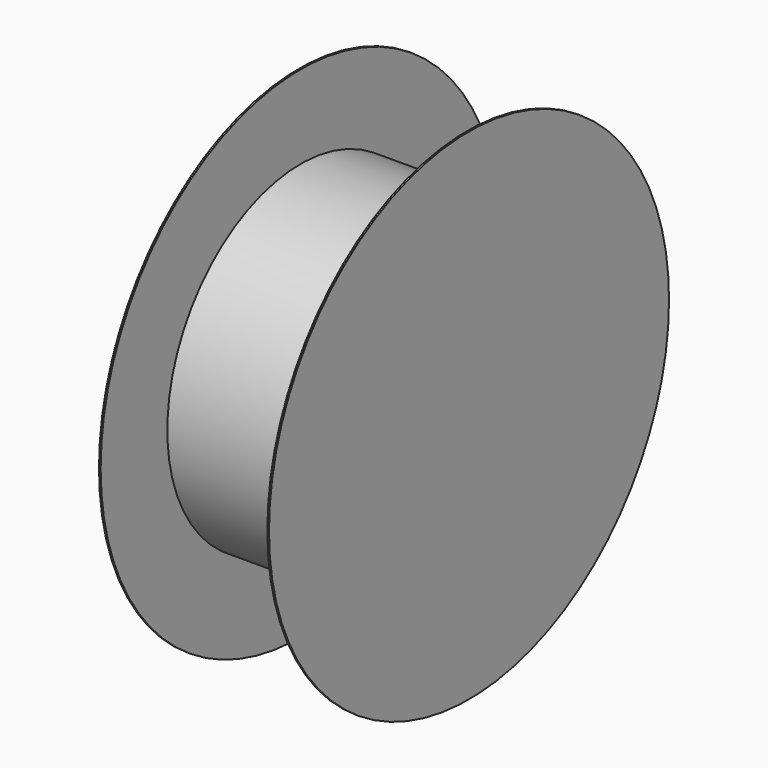
from build123d import *

# Parameters (mm, degrees)
SKETCH005_R   = 100
SKETCH005_R_2 = 10
PAD003_DEPTH  = 100
SKETCH010_R   = 150
SKETCH010_R_2 = 10
PAD007_DEPTH  = 1
SKETCH011_R   = 150
PAD008_DEPTH  = 1


with BuildPart() as part:
    # Sketch005 → Pad003 (new body)
    with BuildSketch(Plane.YZ):
        Circle(SKETCH005_R)
        Circle(SKETCH005_R_2, mode=Mode.SUBTRACT)
    extrude(amount=PAD003_DEPTH)

    # Sketch010 (on Face3 of Pad003) → Pad007 (join)
    with BuildSketch(Plane(origin=(0, 0, 0), x_dir=(0, 1, 0), z_dir=(-1, 0, 0))):
        Circle(SKETCH010_R)
        Circle(SKETCH010_R_2, mode=Mode.SUBTRACT)
    extrude(amount=PAD007_DEPTH)

    # Sketch011 (on Face3 of Pad007) → Pad008 (join)
    with BuildSketch(Plane.YZ.offset(100)):
        Circle(SKETCH011_R)
    extrude(amount=PAD008_DEPTH)


with BuildPart() as part_1:
    # Body002 placement: moved
    add(part.part.moved(Location((0, -225, 160))))


solid = part_1.part
